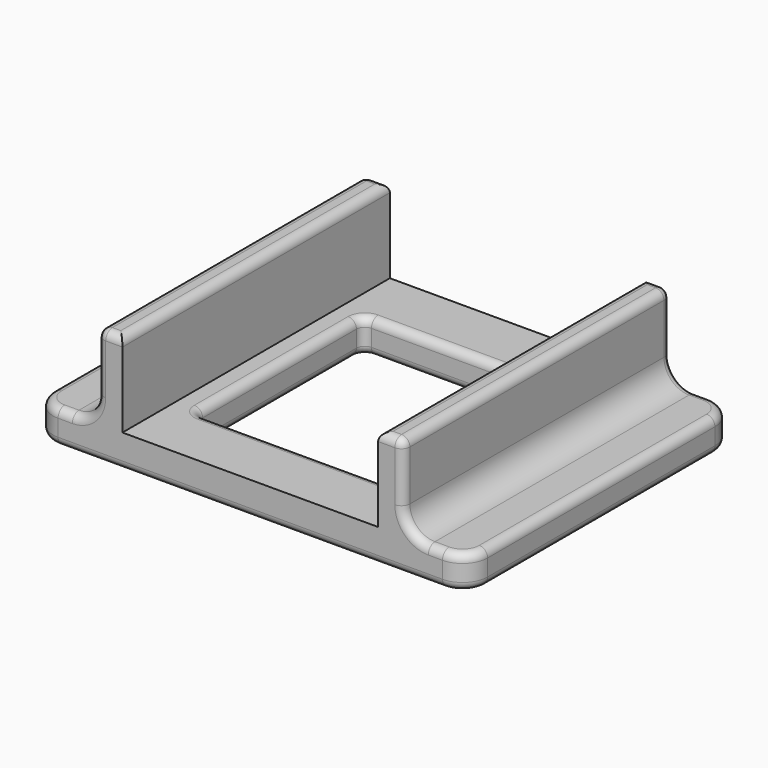
from build123d import *

# Parameters (mm, degrees)
SKETCH024_W   = 52
SKETCH024_H   = 40
SKETCH024_W_2 = 25
SKETCH024_H_2 = 25
PAD011_DEPTH  = 4
SKETCH025_W   = 3
SKETCH025_H   = 40
PAD012_DEPTH  = 10
FILLET010_R   = 3
FILLET011_R   = 3
FILLET012_R   = 1
FILLET013_R   = 1
FILLET014_R   = 1


with BuildPart() as part:
    # Sketch024 → Pad011 (new body)
    with BuildSketch(Plane.XY):
        with Locations((-4.893746, 41.509103)):
            Rectangle(SKETCH024_W, SKETCH024_H)
        with Locations((-4.893746, 41.509103)):
            Rectangle(SKETCH024_W_2, SKETCH024_H_2, mode=Mode.SUBTRACT)
    extrude(amount=PAD011_DEPTH)

    # Sketch025 → Pad012 (join)
    with BuildSketch(Plane.XY.offset(4)):
        with Locations((-21.693746, 41.509103)):
            Rectangle(SKETCH025_W, SKETCH025_H)
        with Locations((11.906254, 41.509103)):
            Rectangle(SKETCH025_W, SKETCH025_H)
    extrude(amount=PAD012_DEPTH)

    # Fillet010
    fillet010_edges = [part.edges().sort_by_distance(p)[0] for p in [
        (21.106254, 21.509103, 2),
        (21.106254, 61.509103, 2),
        (-30.893746, 61.509103, 2),
        (-30.893746, 21.509103, 2),
    ]]
    fillet(fillet010_edges, radius=FILLET010_R)

    # Fillet011
    fillet011_edges = [part.edges().sort_by_distance(p)[0] for p in [
        (-23.193746, 41.509103, 4),
        (13.406254, 41.509103, 4),
    ]]
    fillet(fillet011_edges, radius=FILLET011_R)

    # Fillet012
    fillet012_edges = [part.edges().sort_by_distance(p)[0] for p in [
        (-4.893746, 61.509103, 0),
    ]]
    fillet(fillet012_edges, radius=FILLET012_R)

    # Fillet013
    fillet013_edges = [part.edges().sort_by_distance(p)[0] for p in [
        (20.227575, 60.630424, 4),
        (13.406254, 41.509103, 14),
        (-24.072425, 61.509103, 4.87868),
        (-23.193746, 41.509103, 14),
        (11.906254, 61.509103, 14),
        (11.906254, 21.509103, 14),
        (-21.693746, 21.509103, 14),
        (-21.693746, 61.509103, 14),
        (-20.193746, 41.509103, 14),
        (10.406254, 41.509103, 14),
    ]]
    fillet(fillet013_edges, radius=FILLET013_R)

    # Fillet014
    fillet014_edges = [part.edges().sort_by_distance(p)[0] for p in [
        (7.606254, 29.009103, 2),
        (-17.393746, 29.009103, 2),
        (-4.893746, 29.009103, 0),
        (-4.893746, 29.009103, 4),
        (-17.393746, 54.009103, 2),
        (-17.393746, 41.509103, 0),
        (-17.393746, 41.509103, 4),
        (7.606254, 54.009103, 2),
        (-4.893746, 54.009103, 0),
        (-4.893746, 54.009103, 4),
        (7.606254, 41.509103, 0),
        (7.606254, 41.509103, 4),
    ]]
    fillet(fillet014_edges, radius=FILLET014_R)


with BuildPart() as part_1:
    # Body005 placement: moved
    add(part.part.moved(Location((0, 3, -17))))


solid = part_1.part
